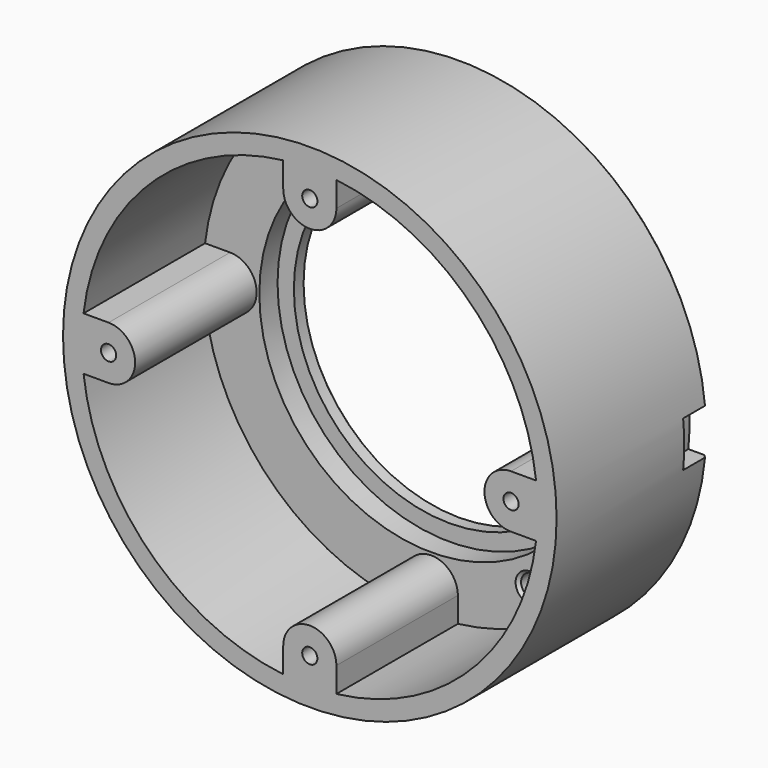
from build123d import *

# Parameters (mm, degrees)
SKETCH045_R          = 32.5
PAD010_DEPTH         = 27
SKETCH046_R          = 22.65
POCKET030_DEPTH      = 25
SKETCH047_R          = 30
POCKET031_DEPTH      = 22
SKETCH048_R          = 20.5
POCKET032_DEPTH      = 2.001
POCKET037_DEPTH      = 2
CHAMFER006_SIZE      = 2
CHAMFER006_FACE3_R   = 32.5
CHAMFER006_FACE3_R_2 = 30
POCKET039_DEPTH      = 2
SKETCH063_R          = 1
PAD016_DEPTH         = 20
POLARPATTERN_COUNT   = 4
CHAMFER008_SIZE      = 0.4
SKETCH066_R          = 1.5
POCKET041_DEPTH      = 25.001
CHAMFER010_SIZE      = 0.4


with BuildPart() as part:
    # Sketch045 → Pad010 (new body)
    with BuildSketch(Plane.XZ):
        Circle(SKETCH045_R)
    extrude(amount=PAD010_DEPTH)

    # Sketch046 (on Face3 of Pad010) → Pocket030 (cut)
    with BuildSketch(Plane.XZ.offset(27)):
        Circle(SKETCH046_R)
    extrude(amount=-POCKET030_DEPTH, mode=Mode.SUBTRACT)

    # Sketch047 (on Face3 of Pocket030) → Pocket031 (cut)
    with BuildSketch(Plane.XZ.offset(27)):
        Circle(SKETCH047_R)
    extrude(amount=-POCKET031_DEPTH, mode=Mode.SUBTRACT)

    # Sketch048 (on Face7 of Pocket031) → Pocket032 (cut, through all)
    with BuildSketch(Plane.XZ.offset(2)):
        Circle(SKETCH048_R)
    extrude(amount=-POCKET032_DEPTH, mode=Mode.SUBTRACT)

    # Sketch059 (on Face2 of Pocket032) → Pocket037 (cut)
    with BuildSketch(Plane(origin=(0, 0, 0), x_dir=(1, 0, 0), z_dir=(0, 1, 0))):
        with BuildLine():
            ThreePointArc((29.849623, -3), (30, 0), (29.849623, 3))
            Line((29.849623, 3), (32.361242, 3))
            ThreePointArc((32.361242, -3), (32.5, 0), (32.361242, 3))
            Line((29.849623, -3), (32.361242, -3))
        make_face()
    extrude(amount=-POCKET037_DEPTH, mode=Mode.SUBTRACT)

    # Chamfer006
    chamfer006_edges = [part.edges().sort_by_distance(p)[0] for p in [
        (32.465292, -2, -1.501604),
    ]]
    chamfer(chamfer006_edges, length=CHAMFER006_SIZE)

    # Chamfer006 Face3 → Pocket039 (cut)
    with BuildSketch(Plane(origin=(0, -27, 0), x_dir=(-1, 0, 0), z_dir=(0, -1, 0))):
        Circle(CHAMFER006_FACE3_R)
        Circle(CHAMFER006_FACE3_R_2, mode=Mode.SUBTRACT)
    extrude(amount=-POCKET039_DEPTH, mode=Mode.SUBTRACT)

    # Sketch063 (on Face7 of Pocket039) → Pad016 (join)
    with BuildSketch(Plane.XZ.offset(25)):
        with BuildLine():
            ThreePointArc((3.5, 29.795134), (0, 30), (-3.5, 29.795134))
            Line((-3.5, 26.5), (-3.5, 29.795134))
            ThreePointArc((-3.5, 26.5), (0, 23), (3.5, 26.5))
            Line((3.5, 26.5), (3.5, 29.795134))
        make_face()
        with Locations((0, 26.5)):
            Circle(SKETCH063_R, mode=Mode.SUBTRACT)
    pad016 = extrude(amount=-PAD016_DEPTH)

    # PolarPattern: Pad016 ×4 about axis
    polarpattern_axis = Axis((0, -25, 0), (0, -1, 0))
    for i in range(1, POLARPATTERN_COUNT):
        add(pad016.rotate(polarpattern_axis, i * 360 / POLARPATTERN_COUNT))

    # Chamfer008
    chamfer008_edges = [part.edges().sort_by_distance(p)[0] for p in [
        (-20.5, 0, 0),
        (-32.5, 0, 0),
    ]]
    chamfer(chamfer008_edges, length=CHAMFER008_SIZE)

    # Sketch066 (on Face8 of Chamfer008) → Pocket041 (cut, through all)
    with BuildSketch(Plane(origin=(0, 0, 0), x_dir=(1, 0, 0), z_dir=(0, 1, 0))):
        with Locations((13, 22.51666)):
            Circle(SKETCH066_R)
    extrude(amount=-POCKET041_DEPTH, mode=Mode.SUBTRACT)

    # Chamfer010
    chamfer010_edges = [part.edges().sort_by_distance(p)[0] for p in [
        (11.5, 0, -22.51666),
        (11.5, -5, -22.51666),
    ]]
    chamfer(chamfer010_edges, length=CHAMFER010_SIZE)


with BuildPart() as part_1:
    # Body005 placement: moved
    add(part.part.moved(Location((0, 90, 0))))


solid = part_1.part
